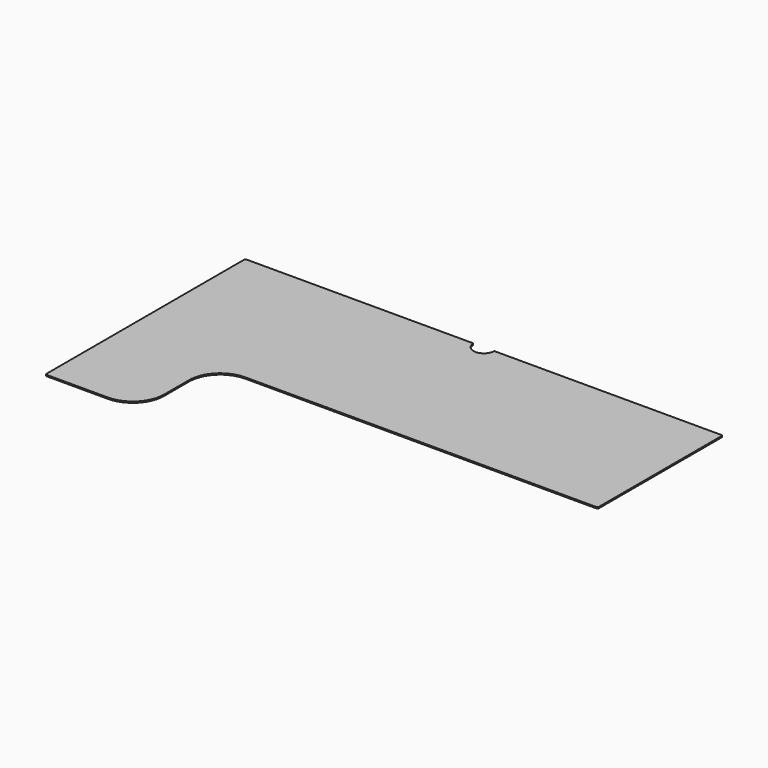
from build123d import *

# Parameters (mm, degrees)
F1_DEPTH = 6.35


with BuildPart() as f1:
    # F0 (on Top) → F1 (new body)
    with BuildSketch(Plane.XY):
        with BuildLine():
            Line((1111.343463, 0), (6.35, 0))
            ThreePointArc((6.35, 0), (1.859872, -1.859872), (0, -6.35))
            Line((0, -6.35), (0, -1212.85))
            ThreePointArc((0, -1212.85), (1.859872, -1217.340128), (6.35, -1219.2))
            Line((6.35, -1219.2), (304.8, -1219.2))
            ThreePointArc((304.8, -1219.2), (412.563073, -1174.563073), (457.2, -1066.8))
            Line((457.2, -1066.8), (457.2, -914.4))
            ThreePointArc((457.2, -914.4), (501.836927, -806.636927), (609.6, -762))
            Line((609.6, -762), (2324.1, -762))
            ThreePointArc((2324.1, -762), (2328.590128, -760.140128), (2330.45, -755.65))
            Line((2330.45, -755.65), (2330.45, -6.35))
            ThreePointArc((2330.45, -6.35), (2328.590128, -1.859872), (2324.1, 0))
            Line((2324.1, 0), (1219.106537, 0))
            ThreePointArc((1219.106537, 0), (1216.928505, -0.864848), (1215.937035, -2.988235))
            ThreePointArc((1215.937035, -2.988235), (1165.225, -50.8), (1114.512965, -2.988235))
            ThreePointArc((1114.512965, -2.988235), (1113.521495, -0.864848), (1111.343463, 0))
        make_face()
    extrude(amount=F1_DEPTH)


solid = f1.part
